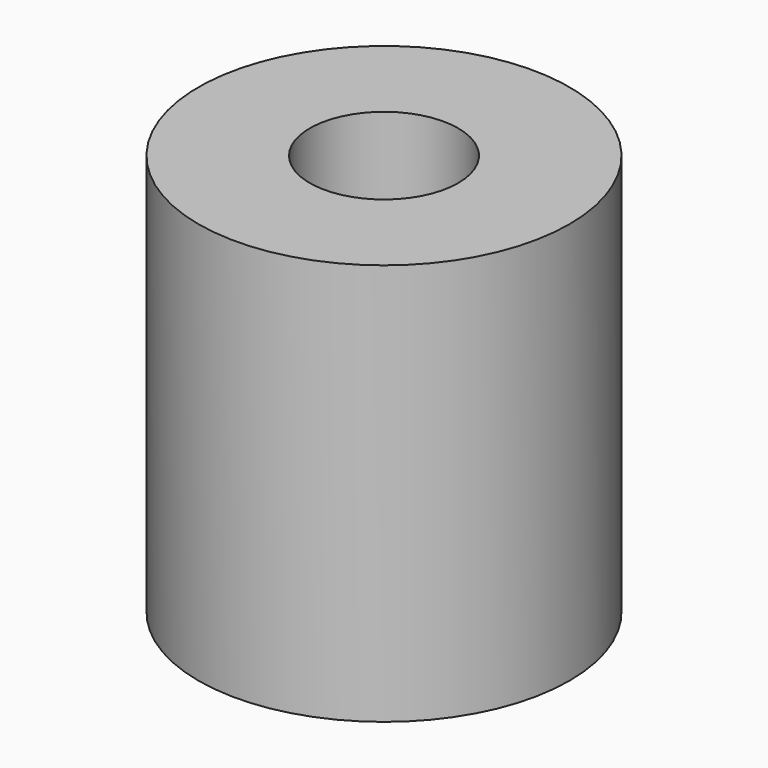
from build123d import *

# Parameters (mm, degrees)
CYLINDER015_R     = 1.2
CYLINDER015_DEPTH = 5.5
CYLINDER016_R     = 3
CYLINDER016_DEPTH = 6.5


with BuildPart() as obj1:
    # Cylinder015 → Cylinder015 (new body)
    with BuildSketch(Plane.XY.offset(1)):
        Circle(CYLINDER015_R)
    extrude(amount=CYLINDER015_DEPTH)


with BuildPart() as mal_bus_pcb:
    # Cylinder016 → Cylinder016 (new body)
    with BuildSketch(Plane.XY):
        Circle(CYLINDER016_R)
    extrude(amount=CYLINDER016_DEPTH)

    # Cut005: cut obj1
    add(obj1.part, mode=Mode.SUBTRACT)


solid = mal_bus_pcb.part
